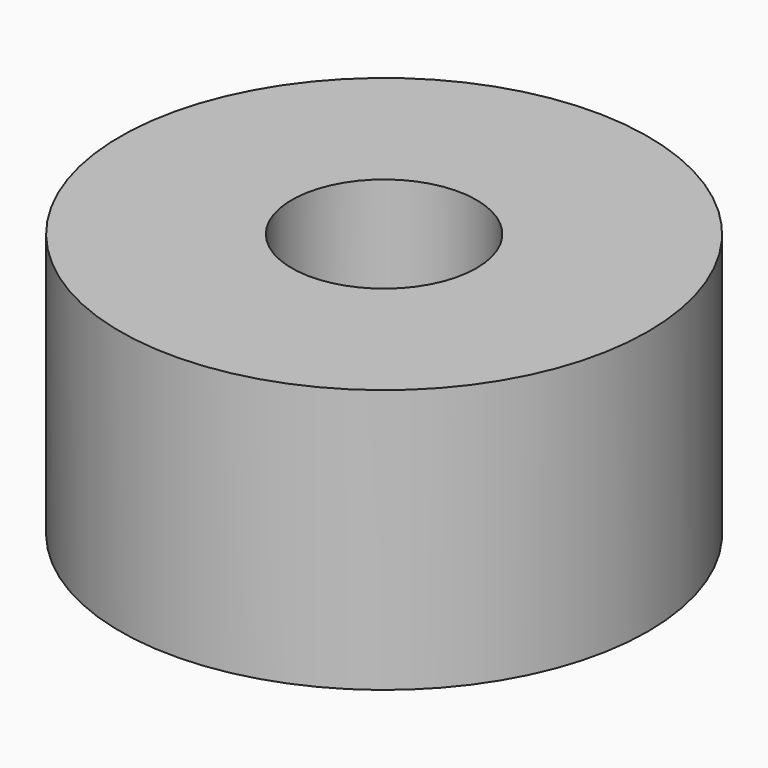
from build123d import *

# Parameters (mm, degrees)
F0_R     = 5
F0_R_2   = 3.5
F0_R_3   = 1.75
F1_DEPTH = 5


with BuildPart() as f1:
    # F0 (on Top) → F1 (new body)
    with BuildSketch(Plane.XY):
        Circle(F0_R)
        Circle(F0_R_2, mode=Mode.SUBTRACT)
        Circle(F0_R_2)
        Circle(F0_R_3, mode=Mode.SUBTRACT)
    extrude(amount=F1_DEPTH)


solid = f1.part
